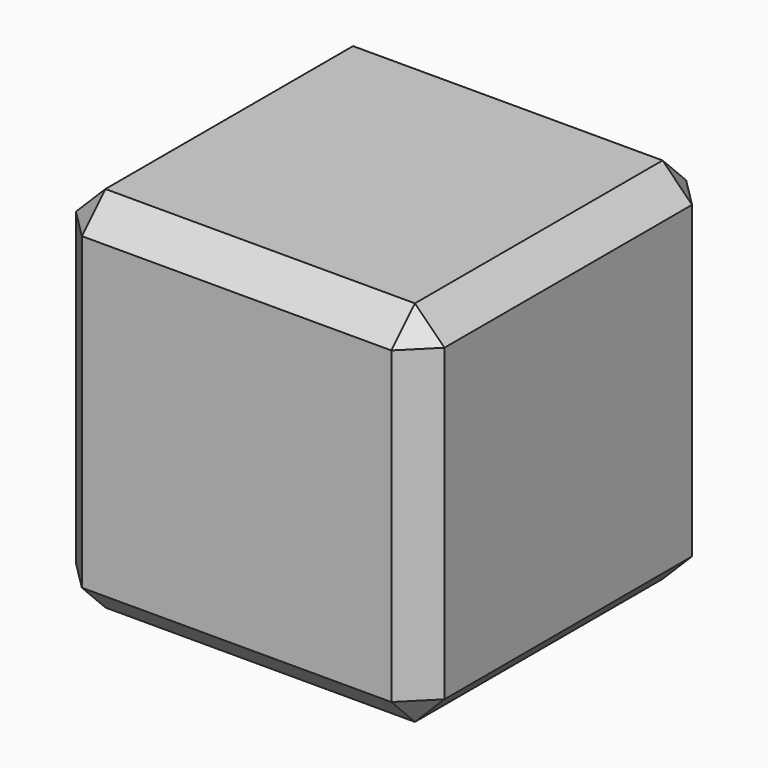
from build123d import *

# Parameters (mm, degrees)
F0_W     = 63.5
F0_H     = 63.5
F1_DEPTH = 63.5
F2_SIZE  = 5.08
F3_R     = 11.556322
F4_DEPTH = 76.708


with BuildPart() as f1:
    # F0 (on Front) → F1 (new body)
    with BuildSketch(Plane.XZ):
        with Locations((-4.667691, -2.960291)):
            Rectangle(F0_W, F0_H)
    extrude(amount=-F1_DEPTH)

    # F2
    f2_edges = [f1.edges().sort_by_distance(p)[0] for p in [
        (-4.667691, 0, 28.789709),
        (27.082309, 31.75, 28.789709),
        (-36.417691, 31.75, 28.789709),
        (-4.667691, 63.5, 28.789709),
        (27.082309, 0, -2.960291),
        (27.082309, 63.5, -2.960291),
        (-36.417691, 0, -2.960291),
        (-36.417691, 63.5, -2.960291),
        (-4.667691, 63.5, -34.710291),
        (27.082309, 31.75, -34.710291),
        (-4.667691, 0, -34.710291),
        (-36.417691, 31.75, -34.710291),
    ]]
    chamfer(f2_edges, length=F2_SIZE)

    # F3 (on face) → F4 (join)
    with BuildSketch(Plane.XZ):
        with Locations((-4.20644, -2.541391)):
            Circle(F3_R)
    extrude(amount=-F4_DEPTH)


solid = f1.part
